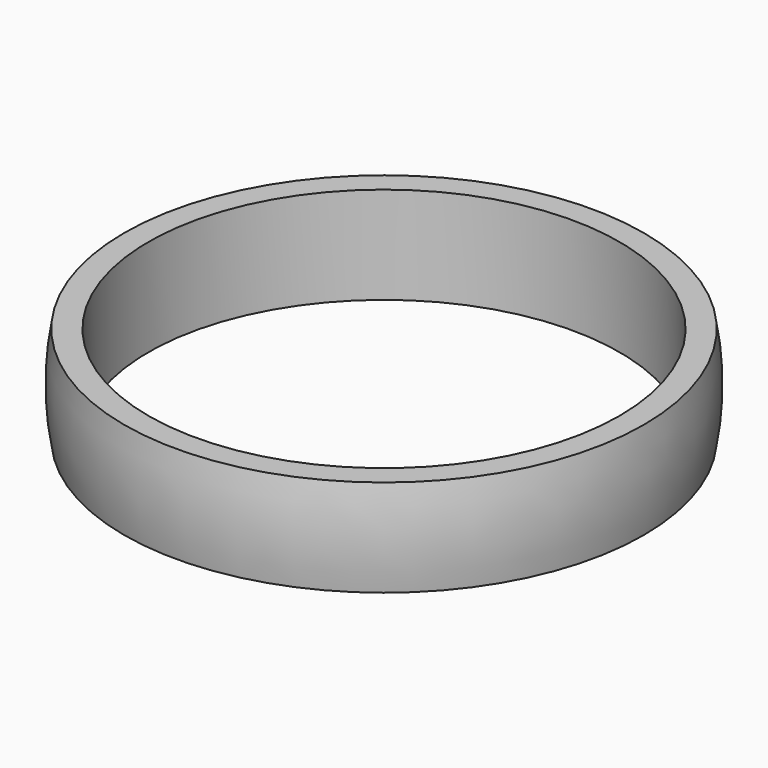
from build123d import *


with BuildPart() as f1:
    # F0 (on Front) → F1 (revolve)
    with BuildSketch(Plane.XZ):
        with BuildLine():
            Line((9.705, -2), (10.705, -2))
            ThreePointArc((10.705, -2), (10.890226, 0), (10.705, 2))
            Line((10.705, 2), (9.705, 2))
            Line((9.705, 2), (9.705, -2))
        make_face()
    revolve(axis=Axis((0, 0, -0.11979), (0, 0, -1)))


solid = f1.part
